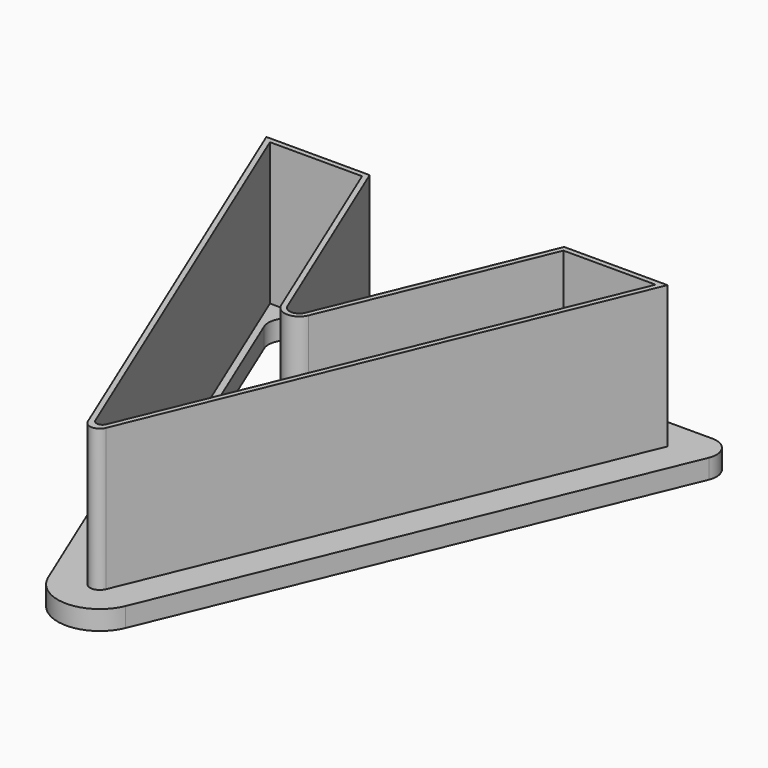
from build123d import *

# Parameters (mm, degrees)
F1_DEPTH = 3
F2_DEPTH = 25
F3_R     = 3


with BuildPart() as f1:
    # F0 (on Top) → F1 (new body)
    with BuildSketch(Plane.XY):
        with BuildLine():
            Line((-1.3858192988, 3.3456637461), (-15.066017178, 36.372583002))
            Line((-15.066017178, 36.372583002), (-31.066017178, 36.372583002))
            Line((-31.066017178, 36.372583002), (-1.3858192988, -35.2817532519))
            ThreePointArc((-1.3858192988, -35.2817532519), (0, -36.2077281033), (1.3858192988, -35.2817532519))
            Line((1.3858192988, -35.2817532519), (31.066017178, 36.372583002))
            Line((31.066017178, 36.372583002), (15.066017178, 36.372583002))
            Line((15.066017178, 36.372583002), (1.3858192988, 3.3456637461))
            ThreePointArc((1.3858192988, 3.3456637461), (0, 2.4196888946), (-1.3858192988, 3.3456637461))
        make_face()
        with BuildLine():
            ThreePointArc((0.8314915793, -34.5295180065), (0, -35.0851029174), (-0.8314915793, -34.5295180065))
            Line((-0.8314915793, -34.5295180065), (-29.8687325678, 35.572583002))
            Line((-29.8687325678, 35.572583002), (-15.6005600883, 35.572583002))
            Line((-15.6005600883, 35.572583002), (-2.1249229248, 3.0395170002))
            ThreePointArc((-2.1249229248, 3.0395170002), (0, 1.6196888946), (2.1249229248, 3.0395170002))
            Line((2.1249229248, 3.0395170002), (15.6005600883, 35.572583002))
            Line((15.6005600883, 35.572583002), (29.8687325678, 35.572583002))
            Line((29.8687325678, 35.572583002), (0.8314915793, -34.5295180065))
        make_face(mode=Mode.SUBTRACT)
        with BuildLine():
            Line((-29.8687325678, 35.572583002), (-0.8314915793, -34.5295180065))
            ThreePointArc((-0.8314915793, -34.5295180065), (0, -35.0851029174), (0.8314915793, -34.5295180065))
            Line((0.8314915793, -34.5295180065), (29.8687325678, 35.572583002))
            Line((29.8687325678, 35.572583002), (15.6005600883, 35.572583002))
            Line((15.6005600883, 35.572583002), (2.1249229248, 3.0395170002))
            ThreePointArc((2.1249229248, 3.0395170002), (0, 1.6196888946), (-2.1249229248, 3.0395170002))
            Line((-2.1249229248, 3.0395170002), (-15.6005600883, 35.572583002))
            Line((-15.6005600883, 35.572583002), (-29.8687325678, 35.572583002))
        make_face()
        with BuildLine():
            Line((28.3721268052, 34.572583002), (0, -33.9237903244))
            Line((0, -33.9237903244), (-28.3721268052, 34.572583002))
            Line((-28.3721268052, 34.572583002), (-16.2687387262, 34.572583002))
            Line((-16.2687387262, 34.572583002), (-3.0488024573, 2.6568335678))
            ThreePointArc((-3.0488024573, 2.6568335678), (0, 0.6196888946), (3.0488024573, 2.6568335678))
            Line((3.0488024573, 2.6568335678), (16.2687387262, 34.572583002))
            Line((16.2687387262, 34.572583002), (28.3721268052, 34.572583002))
        make_face(mode=Mode.SUBTRACT)
        with BuildLine():
            Line((-31.066017178, 36.372583002), (-15.066017178, 36.372583002))
            Line((-15.066017178, 36.372583002), (-9.6540561765, 36.372583002))
            Line((-9.6540561765, 36.372583002), (-11.7251239884, 41.372583002))
            Line((-11.7251239884, 41.372583002), (-38.5490459913, 41.372583002))
            Line((-38.5490459913, 41.372583002), (-6.0052169613, -37.1951704137))
            ThreePointArc((-6.0052169613, -37.1951704137), (0, -41.2077281033), (6.0052169613, -37.1951704137))
            Line((6.0052169613, -37.1951704137), (38.5490459913, 41.372583002))
            Line((38.5490459913, 41.372583002), (11.7251239884, 41.372583002))
            Line((11.7251239884, 41.372583002), (9.6540561765, 36.372583002))
            Line((9.6540561765, 36.372583002), (15.066017178, 36.372583002))
            Line((15.066017178, 36.372583002), (31.066017178, 36.372583002))
            Line((31.066017178, 36.372583002), (1.3858192988, -35.2817532519))
            ThreePointArc((1.3858192988, -35.2817532519), (0, -36.2077281033), (-1.3858192988, -35.2817532519))
            Line((-1.3858192988, -35.2817532519), (-31.066017178, 36.372583002))
        make_face()
        with BuildLine():
            Line((-9.6540561765, 36.372583002), (-15.066017178, 36.372583002))
            Line((-15.066017178, 36.372583002), (-1.3858192988, 3.3456637461))
            ThreePointArc((-1.3858192988, 3.3456637461), (0, 2.4196888946), (1.3858192988, 3.3456637461))
            Line((1.3858192988, 3.3456637461), (15.066017178, 36.372583002))
            Line((15.066017178, 36.372583002), (9.6540561765, 36.372583002))
            Line((9.6540561765, 36.372583002), (0, 13.0656296488))
            Line((0, 13.0656296488), (-9.6540561765, 36.372583002))
        make_face()
    extrude(amount=F1_DEPTH)

    # F0 (on Top) → F2 (join)
    with BuildSketch(Plane.XY):
        with BuildLine():
            Line((-1.3858192988, 3.3456637461), (-15.066017178, 36.372583002))
            Line((-15.066017178, 36.372583002), (-31.066017178, 36.372583002))
            Line((-31.066017178, 36.372583002), (-1.3858192988, -35.2817532519))
            ThreePointArc((-1.3858192988, -35.2817532519), (0, -36.2077281033), (1.3858192988, -35.2817532519))
            Line((1.3858192988, -35.2817532519), (31.066017178, 36.372583002))
            Line((31.066017178, 36.372583002), (15.066017178, 36.372583002))
            Line((15.066017178, 36.372583002), (1.3858192988, 3.3456637461))
            ThreePointArc((1.3858192988, 3.3456637461), (0, 2.4196888946), (-1.3858192988, 3.3456637461))
        make_face()
        with BuildLine():
            ThreePointArc((0.8314915793, -34.5295180065), (0, -35.0851029174), (-0.8314915793, -34.5295180065))
            Line((-0.8314915793, -34.5295180065), (-29.8687325678, 35.572583002))
            Line((-29.8687325678, 35.572583002), (-15.6005600883, 35.572583002))
            Line((-15.6005600883, 35.572583002), (-2.1249229248, 3.0395170002))
            ThreePointArc((-2.1249229248, 3.0395170002), (0, 1.6196888946), (2.1249229248, 3.0395170002))
            Line((2.1249229248, 3.0395170002), (15.6005600883, 35.572583002))
            Line((15.6005600883, 35.572583002), (29.8687325678, 35.572583002))
            Line((29.8687325678, 35.572583002), (0.8314915793, -34.5295180065))
        make_face(mode=Mode.SUBTRACT)
    extrude(amount=F2_DEPTH)

    # F3
    f3_edges = [f1.edges().sort_by_distance(p)[0] for p in [
        (-38.549046, 41.372583, 1.5),
        (-11.725124, 41.372583, 1.5),
        (11.725124, 41.372583, 1.5),
        (38.549046, 41.372583, 1.5),
        (-16.268739, 34.572583, 1.5),
        (-28.372127, 34.572583, 1.5),
        (16.268739, 34.572583, 1.5),
        (28.372127, 34.572583, 1.5),
        (0, -33.92379, 1.5),
    ]]
    fillet(f3_edges, radius=F3_R)


solid = f1.part
